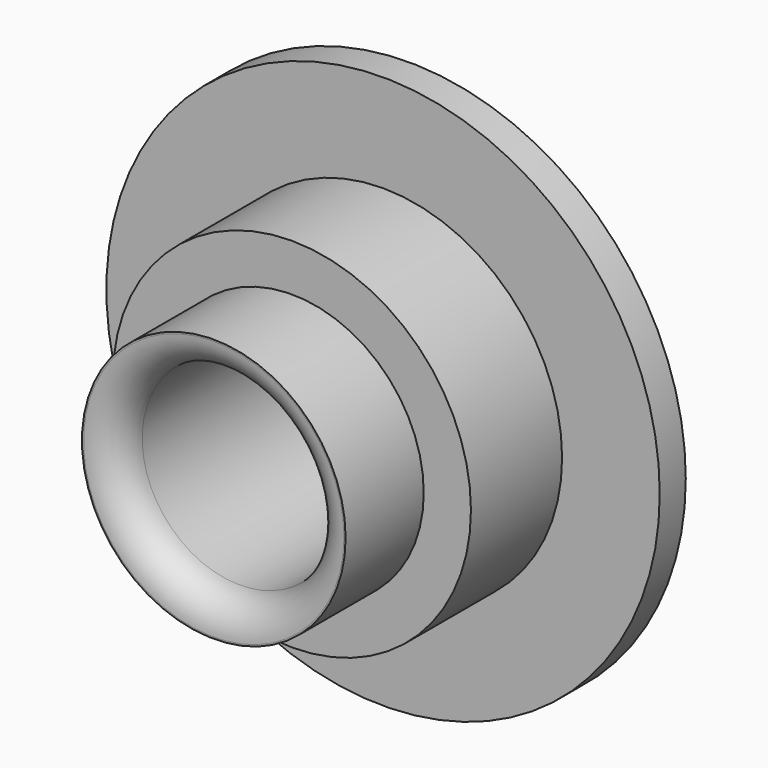
from build123d import *

# Parameters (mm, degrees)
F0_R     = 8.5
F0_R_2   = 5.5
F1_DEPTH = 1
F0_R_3   = 4.05
F2_DEPTH = 4.5
F0_R_4   = 3
F3_DEPTH = 7.5
F4_R     = 1
F5_R     = 1


with BuildPart() as f1:
    # F0 (on Front) → F1 (new body)
    with BuildSketch(Plane.XZ):
        Circle(F0_R)
        Circle(F0_R_2, mode=Mode.SUBTRACT)
    extrude(amount=F1_DEPTH)

    # F0 (on Front) → F2 (join)
    with BuildSketch(Plane.XZ):
        Circle(F0_R_2)
        Circle(F0_R_3, mode=Mode.SUBTRACT)
    extrude(amount=F2_DEPTH)

    # F0 (on Front) → F3 (join)
    with BuildSketch(Plane.XZ):
        Circle(F0_R_3)
        Circle(F0_R_4, mode=Mode.SUBTRACT)
    extrude(amount=F3_DEPTH)

    # F4
    f4_edges = [f1.edges().sort_by_distance(p)[0] for p in [
        (-3, -7.5, 0),
    ]]
    fillet(f4_edges, radius=F4_R)

    # F5
    f5_edges = [f1.edges().sort_by_distance(p)[0] for p in [
        (-3, 0, 0),
    ]]
    fillet(f5_edges, radius=F5_R)


solid = f1.part
